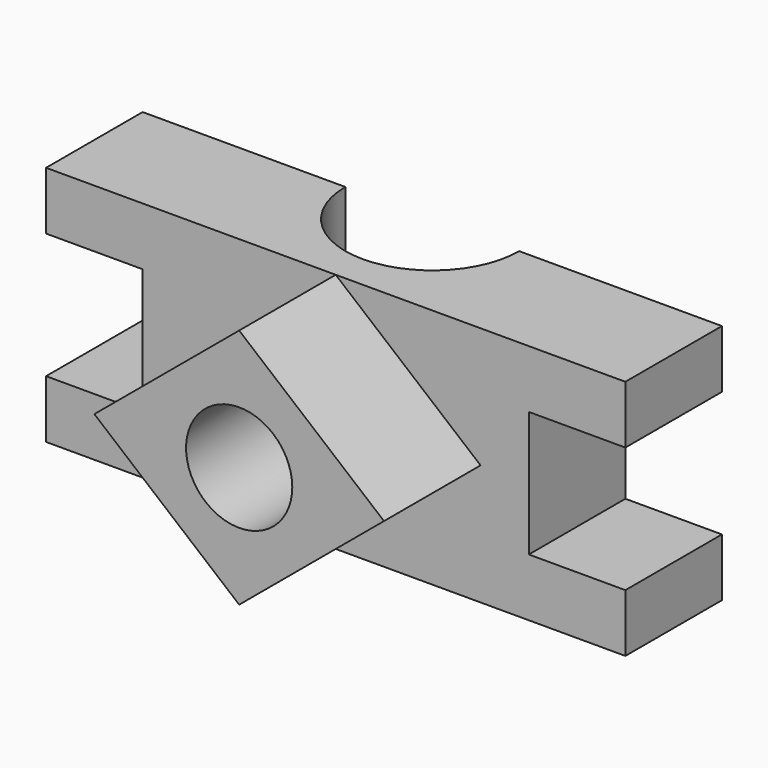
from build123d import *

# Parameters (mm, degrees)
F0_W     = 1200
F0_H     = 500
F1_DEPTH = 250
F2_W     = 400
F2_H     = 260
F3_DEPTH = 250.001
F5_DEPTH = 250
F6_R     = 110
F7_DEPTH = 500.001
F8_R     = 180
F9_DEPTH = 500.001


with BuildPart() as f1:
    # F0 (on Front) → F1 (new body)
    with BuildSketch(Plane.XZ):
        Rectangle(F0_W, F0_H)
    extrude(amount=F1_DEPTH)

    # F2 (on face) → F3 (cut, through all)
    with BuildSketch(Plane(origin=(0, 0, 0), x_dir=(-1, 0, 0), z_dir=(0, 1, 0))):
        with Locations((-600, 0)):
            Rectangle(F2_W, F2_H)
        with Locations((600, 0)):
            Rectangle(F2_W, F2_H)
    extrude(amount=-F3_DEPTH, mode=Mode.SUBTRACT)

    # F4 (on face) → F5 (join)
    with BuildSketch(Plane.XZ.offset(250)):
        Polygon((0, 250), (-300, 0), (0, -250), (300, 0), align=None)
    extrude(amount=F5_DEPTH)

    # F6 (on face) → F7 (cut, through all)
    with BuildSketch(Plane.XZ.offset(500)):
        Circle(F6_R)
    extrude(amount=-F7_DEPTH, mode=Mode.SUBTRACT)

    # F8 (on face) → F9 (cut, through all)
    with BuildSketch(Plane(origin=(0, 0, -250), x_dir=(1, 0, 0), z_dir=(0, 0, -1))):
        Circle(F8_R)
    extrude(amount=-F9_DEPTH, mode=Mode.SUBTRACT)


solid = f1.part
